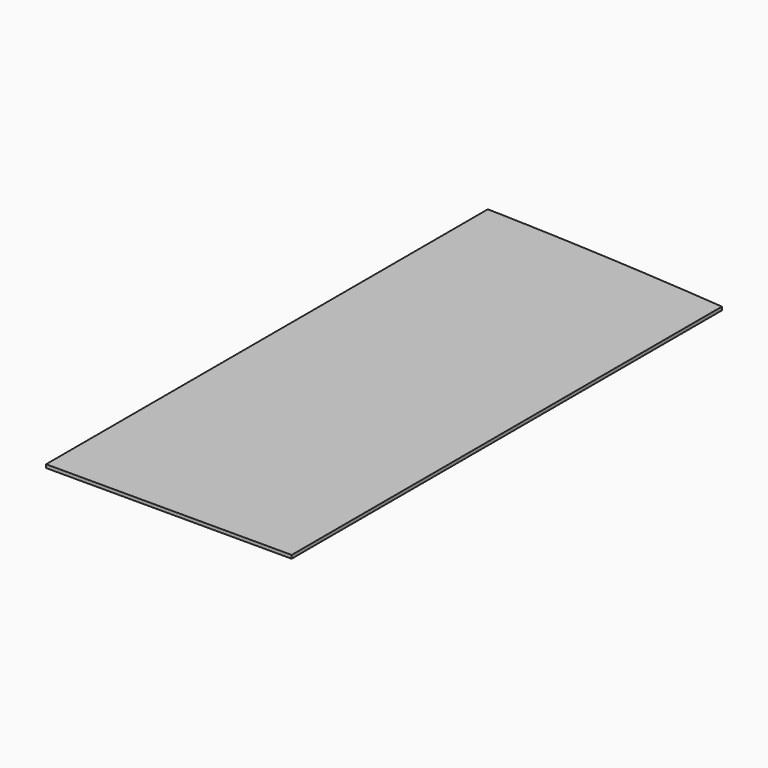
from build123d import *

# Parameters (mm, degrees)
F1_DEPTH = 25.4


with BuildPart() as f1:
    # F0 (on Top) → F1 (new body)
    with BuildSketch(Plane.XY):
        with BuildLine():
            Line((-730.982687, 4169.918), (-730.982687, 0))
            Line((-730.982687, 0), (196.117313, 0))
            Line((196.117313, 0), (196.117313, 4129.278))
            ThreePointArc((196.117313, 4129.278), (-267.284409, 4152.980596), (-730.982687, 4169.918))
        make_face()
        with BuildLine():
            Line((196.117313, 4129.278), (196.117313, 0))
            Line((196.117313, 0), (1123.217313, 0))
            Line((1123.217313, 0), (1123.217313, 4061.46))
            ThreePointArc((1123.217313, 4061.46), (659.915175, 4098.75738), (196.117313, 4129.278))
        make_face()
    extrude(amount=F1_DEPTH)


solid = f1.part
